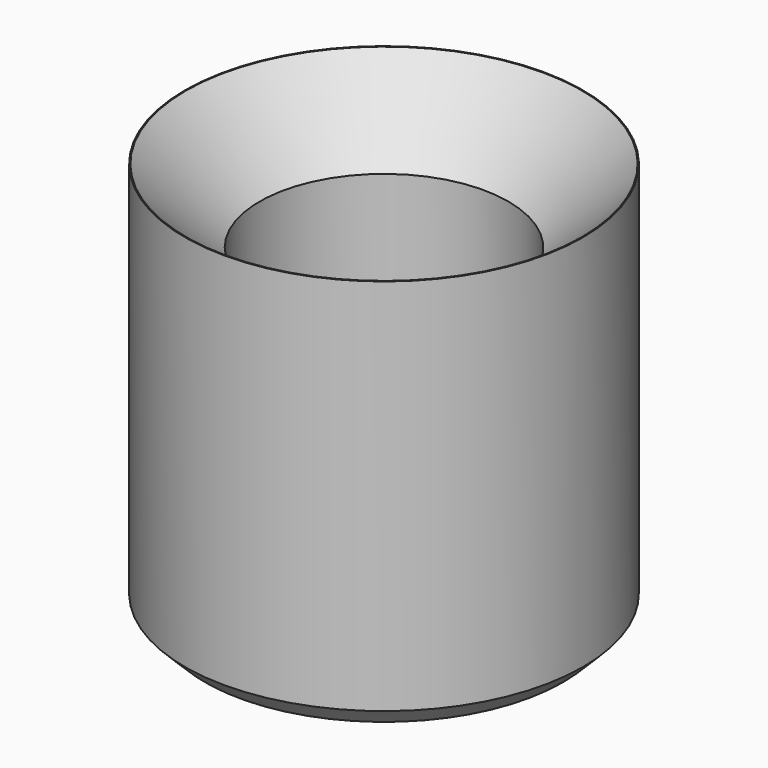
from build123d import *

# Parameters (mm, degrees)
SKETCH_R        = 2
PAD_DEPTH       = 4
CHAMFER_SIZE    = 0.2
SKETCH001_R     = 1.25
POCKET_DEPTH    = 5
CHAMFER001_SIZE = 0.74


with BuildPart() as part:
    # Sketch → Pad (new body)
    with BuildSketch(Plane.XY):
        Circle(SKETCH_R)
    extrude(amount=PAD_DEPTH)

    # Chamfer
    chamfer_edges = [part.edges().sort_by_distance(p)[0] for p in [
        (-2, 0, 0),
    ]]
    chamfer(chamfer_edges, length=CHAMFER_SIZE)

    # Sketch001 → Pocket (cut)
    with BuildSketch(Plane.XY.offset(4)):
        Circle(SKETCH001_R)
    extrude(amount=-POCKET_DEPTH, mode=Mode.SUBTRACT)

    # Chamfer001
    chamfer001_edges = [part.edges().sort_by_distance(p)[0] for p in [
        (-1.25, 0, 4),
    ]]
    chamfer(chamfer001_edges, length=CHAMFER001_SIZE)


solid = part.part
